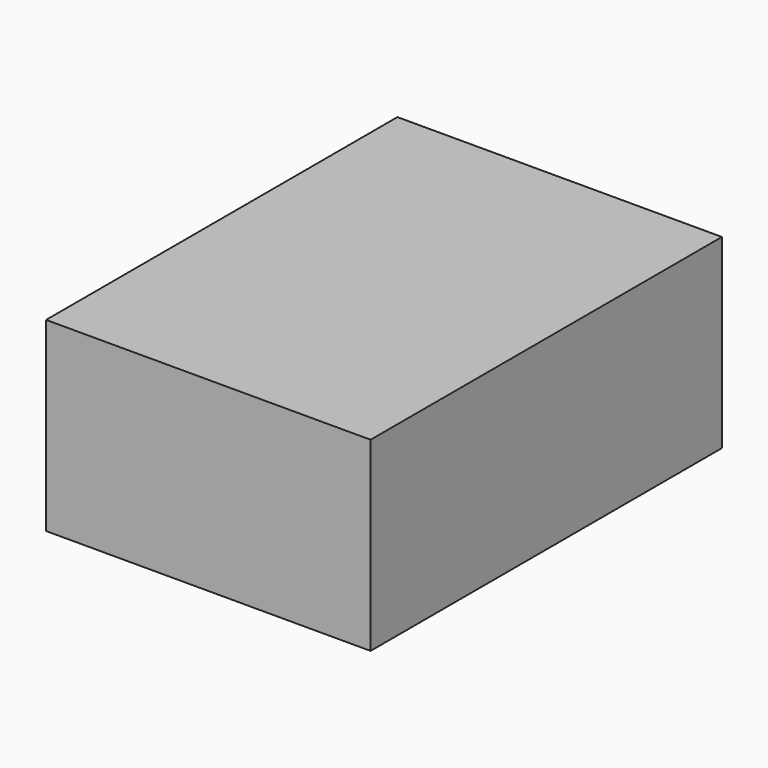
from build123d import *

# Parameters (mm, degrees)
F0_W     = 85.12342
F0_H     = 115.202368
F1_DEPTH = 48.768
F2_W     = 115.202368
F2_H     = 48.768
F3_DEPTH = 67.818


with BuildPart() as f1:
    # F0 (on Top) → F1 (new body)
    with BuildSketch(Plane.XY):
        Rectangle(F0_W, F0_H)
    extrude(amount=F1_DEPTH)

    # F2 (on face) → F3 (join)
    with BuildSketch(Plane.YZ.offset(42.56171)):
        with Locations((0, 24.384)):
            Rectangle(F2_W, F2_H)
    extrude(amount=-F3_DEPTH)


solid = f1.part
